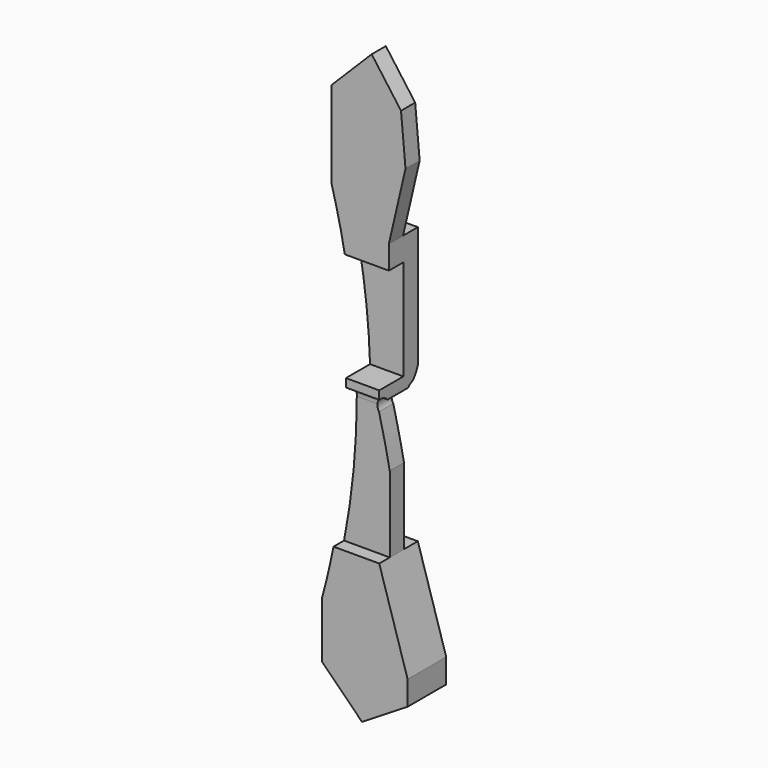
from build123d import *

# Parameters (mm, degrees)
F1_DEPTH  = 30.48
F2_DEPTH  = 30.48
F3_DEPTH  = 30.48
F5_DEPTH  = 661.416
F6_W      = 45.72
F6_H      = 152.3821130395
F7_DEPTH  = 222.504
F9_DEPTH  = 46.3296
F10_DEPTH = 18.288
F13_DEPTH = 296.2656
F14_DEPTH = 86.2584
F15_DEPTH = 18.288


with BuildPart() as f1:
    # F0 (on Front) → F1 (new body)
    with BuildSketch(Plane.XZ):
        Polygon((16.8911121702, 157.9167651749), (-44.0688878298, 96.9567651749), (16.8911121702, 96.9567651749), align=None)
        Polygon((16.8911121702, 96.9567651749), (-44.0688878298, 96.9567651749), (-44.0688878298, -665.0432348251), (16.8911121702, -665.0432348251), (16.8911121702, -726.0032348251), (86.011223495, -683.3165884018), (86.011223495, -646.4774608612), (43.015755713, -506.0282349586), (43.015755713, -86.7099538445), (68.1852996349, 21.7126905918), (61.4088848233, 96.9567651749), (16.8911121702, 157.9167651749), align=None)
        Polygon((16.8911121702, -665.0432348251), (-44.0688878298, -665.0432348251), (16.8911121702, -726.0032348251), align=None)
    extrude(amount=F1_DEPTH)

    # F2 (add): a face of the model
    f2_faces = [f1.faces().sort_by_distance(p)[0] for p in [
        (6.2050010019, -30.48, -294.9143233184),
    ]]
    extrude(f2_faces, amount=F2_DEPTH)

    # F3 (add): a face of the model
    f3_faces = [f1.faces().sort_by_distance(p)[0] for p in [
        (6.2050010019, -60.96, -294.9143233184),
    ]]
    extrude(f3_faces, amount=F3_DEPTH)

    # F4 (on face) → F5 (cut)
    with BuildSketch(Plane(origin=(0, 0, 0), x_dir=(-1, 0, 0), z_dir=(0, 1, 0))):
        with BuildLine():
            Line((44.0688878298, -581.2422633171), (44.0688878298, -34.1473101496))
            ThreePointArc((44.0688878298, -34.1473101496), (7.0024431669, -307.6947867334), (44.0688878298, -581.2422633171))
        make_face()
    extrude(amount=-F5_DEPTH, mode=Mode.SUBTRACT)

    # F6 (on face) → F7 (cut)
    with BuildSketch(Plane.YZ.offset(43.015755713)):
        with Locations((-68.58, -198.6809484661)):
            Rectangle(F6_W, F6_H)
    extrude(amount=-F7_DEPTH, mode=Mode.SUBTRACT)

    # F8 (on face) → F9 (cut)
    with BuildSketch(Plane(origin=(0, 0, 0), x_dir=(-1, 0, 0), z_dir=(0, 1, 0))):
        with BuildLine():
            Line((-68.1852996349, 21.7126905918), (-43.015755713, -86.7099538445))
            Line((-43.015755713, -86.7099538445), (31.0375482418, -86.7099538445))
            ThreePointArc((31.0375482418, -86.7099538445), (37.2070107283, -60.3428002224), (44.0688878298, -34.1473101496))
            Line((44.0688878298, -34.1473101496), (44.0688878298, 96.9567651749))
            Line((44.0688878298, 96.9567651749), (-16.8911121702, 157.9167651749))
            Line((-16.8911121702, 157.9167651749), (-61.4088848233, 96.9567651749))
            Line((-61.4088848233, 96.9567651749), (-68.1852996349, 21.7126905918))
        make_face()
    extrude(amount=-F9_DEPTH, mode=Mode.SUBTRACT)

    # F10 (cut): a face of the model
    f10_faces = [f1.faces().sort_by_distance(p)[0] for p in [
        (15.3196752296, 0, -444.822898096),
    ]]
    extrude(f10_faces, amount=-F10_DEPTH, mode=Mode.SUBTRACT)

    # F12 (on face) → F13 (cut)
    with BuildSketch(Plane.XZ.offset(91.44)):
        with BuildLine():
            Line((43.015755713, -390.4501199722), (43.015755713, -293.7003970146))
            ThreePointArc((43.015755713, -293.7003970146), (27.028136051, -299.6814009845), (26.5955161303, -316.7456686497))
            ThreePointArc((26.5955161303, -316.7456686497), (35.3432447647, -353.478123173), (43.015755713, -390.4501199722))
        make_face()
    extrude(amount=-F13_DEPTH, mode=Mode.SUBTRACT)

    # F11 (on face) → F14 (cut)
    with BuildSketch(Plane.YZ.offset(43.015755713)):
        with BuildLine():
            Line((-71.4861452579, -398.3681499958), (-71.4861452579, -306.9769144058))
            ThreePointArc((-71.4861452579, -306.9769144058), (-76.814746868, -292.4826164705), (-91.44, -287.5247299671))
            Line((-91.44, -287.5247299671), (-91.44, -506.0282349586))
            Line((-91.44, -506.0282349586), (-71.4861452579, -506.0282349586))
            Line((-71.4861452579, -506.0282349586), (-71.4861452579, -398.3681499958))
        make_face()
        with BuildLine():
            ThreePointArc((-27.6783167816, -287.4728058939), (-23.0664051614, -286.1317966662), (-18.288, -285.6471538544))
            Line((-18.288, -285.6471538544), (-18.288, -270.6759691181))
            ThreePointArc((-18.288, -270.6759691181), (-22.0060984175, -279.6206155123), (-27.6783167816, -287.4728058939))
        make_face()
        with BuildLine():
            Line((-44.4478472258, -398.3681499958), (-44.4478472258, -506.0282349586))
            Line((-44.4478472258, -506.0282349586), (-18.288, -506.0282349586))
            Line((-18.288, -506.0282349586), (-18.288, -285.6471538544))
            ThreePointArc((-18.288, -285.6471538544), (-23.0664051614, -286.1317966662), (-27.6783167816, -287.4728058939))
            ThreePointArc((-27.6783167816, -287.4728058939), (-33.0895793591, -292.4309253132), (-39.2827639268, -296.3690944016))
            ThreePointArc((-39.2827639268, -296.3690944016), (-42.9947480165, -303.4018680478), (-44.4478472258, -311.2202587856))
            Line((-44.4478472258, -311.2202587856), (-44.4478472258, -312.9553496838))
            Line((-44.4478472258, -312.9553496838), (-44.4478472258, -398.3681499958))
        make_face()
        with BuildLine():
            ThreePointArc((-39.2827639268, -296.3690944016), (-33.0895793591, -292.4309253132), (-27.6783167816, -287.4728058939))
            ThreePointArc((-27.6783167816, -287.4728058939), (-34.1077092685, -291.1028619629), (-39.2827639268, -296.3690944016))
        make_face()
    extrude(amount=-F14_DEPTH, mode=Mode.SUBTRACT)

    # F15 (cut): a face of the model
    f15_faces = [f1.faces().sort_by_distance(p)[0] for p in [
        (9.0527657061, -91.44, 12.1173213598),
    ]]
    extrude(f15_faces, amount=-F15_DEPTH, mode=Mode.SUBTRACT)


solid = f1.part
